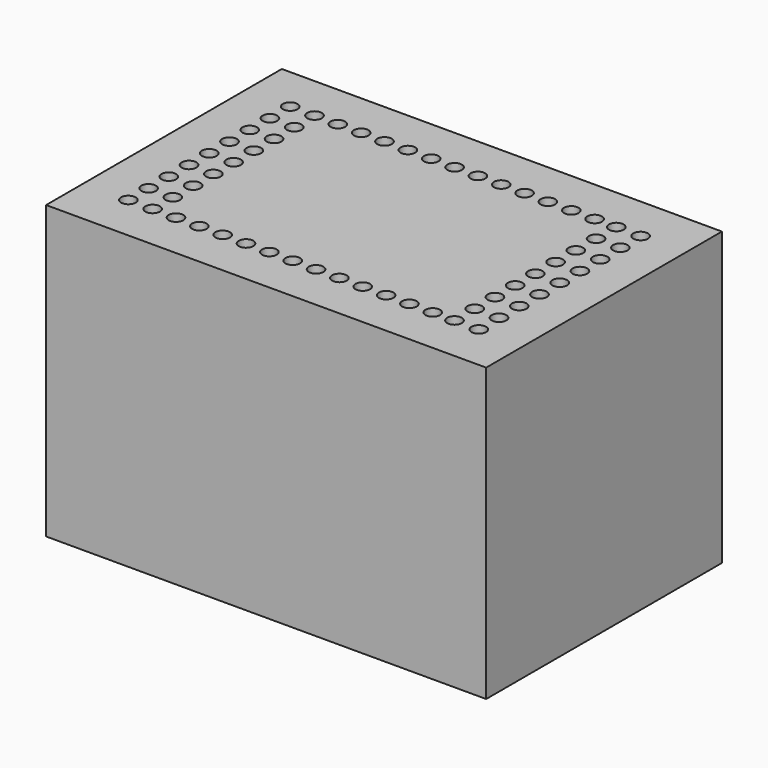
from build123d import *

# Parameters (mm, degrees)
F0_W     = 90.5
F0_H     = 60.6
F0_W_2   = 82.5
F0_H_2   = 52.6
F0_R     = 1.5
F1_DEPTH = 30
F2_DEPTH = 26


with BuildPart() as f1:
    # F0 (on Top) → F1 (new body, symmetric)
    with BuildSketch(Plane.XY):
        Rectangle(F0_W, F0_H)
        Rectangle(F0_W_2, F0_H_2, mode=Mode.SUBTRACT)
        Rectangle(F0_W_2, F0_H_2)
        with Locations((-36.030952, -20.674154)):
            Circle(F0_R, mode=Mode.SUBTRACT)
        with Locations((-36.030952, -15.474154)):
            Circle(F0_R, mode=Mode.SUBTRACT)
        with Locations((-31.030952, -20.674154)):
            Circle(F0_R, mode=Mode.SUBTRACT)
        with Locations((-26.230952, -20.674154)):
            Circle(F0_R, mode=Mode.SUBTRACT)
        with Locations((-31.030952, -15.474154)):
            Circle(F0_R, mode=Mode.SUBTRACT)
        with Locations((-21.430952, -20.674154)):
            Circle(F0_R, mode=Mode.SUBTRACT)
        with Locations((-16.630952, -20.674154)):
            Circle(F0_R, mode=Mode.SUBTRACT)
        with Locations((-11.830952, -20.674154)):
            Circle(F0_R, mode=Mode.SUBTRACT)
        with Locations((-7.030952, -20.674154)):
            Circle(F0_R, mode=Mode.SUBTRACT)
        with Locations((-2.230952, -20.674154)):
            Circle(F0_R, mode=Mode.SUBTRACT)
        with Locations((-36.030952, -10.274154)):
            Circle(F0_R, mode=Mode.SUBTRACT)
        with Locations((-31.030952, -10.274154)):
            Circle(F0_R, mode=Mode.SUBTRACT)
        with Locations((-36.030952, -5.074154)):
            Circle(F0_R, mode=Mode.SUBTRACT)
        with Locations((-31.030952, -5.074154)):
            Circle(F0_R, mode=Mode.SUBTRACT)
        with Locations((2.569048, -20.674154)):
            Circle(F0_R, mode=Mode.SUBTRACT)
        with Locations((7.369048, -20.674154)):
            Circle(F0_R, mode=Mode.SUBTRACT)
        with Locations((12.169048, -20.674154)):
            Circle(F0_R, mode=Mode.SUBTRACT)
        with Locations((16.969048, -20.674154)):
            Circle(F0_R, mode=Mode.SUBTRACT)
        with Locations((21.769048, -20.674154)):
            Circle(F0_R, mode=Mode.SUBTRACT)
        with Locations((26.569048, -20.674154)):
            Circle(F0_R, mode=Mode.SUBTRACT)
        with Locations((31.030952, -20.674154)):
            Circle(F0_R, mode=Mode.SUBTRACT)
        with Locations((31.030952, -15.474154)):
            Circle(F0_R, mode=Mode.SUBTRACT)
        with Locations((36.030952, -20.674154)):
            Circle(F0_R, mode=Mode.SUBTRACT)
        with Locations((36.030952, -15.474154)):
            Circle(F0_R, mode=Mode.SUBTRACT)
        with Locations((31.030952, -10.274154)):
            Circle(F0_R, mode=Mode.SUBTRACT)
        with Locations((36.030952, -10.274154)):
            Circle(F0_R, mode=Mode.SUBTRACT)
        with Locations((31.030952, -5.074154)):
            Circle(F0_R, mode=Mode.SUBTRACT)
        with Locations((36.030952, -5.074154)):
            Circle(F0_R, mode=Mode.SUBTRACT)
        with Locations((-36.030952, 0.125846)):
            Circle(F0_R, mode=Mode.SUBTRACT)
        with Locations((-36.030952, 5.325846)):
            Circle(F0_R, mode=Mode.SUBTRACT)
        with Locations((-31.030952, 0.125846)):
            Circle(F0_R, mode=Mode.SUBTRACT)
        with Locations((-31.030952, 5.325846)):
            Circle(F0_R, mode=Mode.SUBTRACT)
        with Locations((-36.030952, 10.525846)):
            Circle(F0_R, mode=Mode.SUBTRACT)
        with Locations((-31.030952, 10.525846)):
            Circle(F0_R, mode=Mode.SUBTRACT)
        with Locations((-36.030952, 15.725846)):
            Circle(F0_R, mode=Mode.SUBTRACT)
        with Locations((-36.030952, 20.925846)):
            Circle(F0_R, mode=Mode.SUBTRACT)
        with Locations((-31.030952, 15.725846)):
            Circle(F0_R, mode=Mode.SUBTRACT)
        with Locations((-31.030952, 20.925846)):
            Circle(F0_R, mode=Mode.SUBTRACT)
        with Locations((-26.230952, 20.925846)):
            Circle(F0_R, mode=Mode.SUBTRACT)
        with Locations((-21.430952, 20.925846)):
            Circle(F0_R, mode=Mode.SUBTRACT)
        with Locations((-16.630952, 20.925846)):
            Circle(F0_R, mode=Mode.SUBTRACT)
        with Locations((-11.830952, 20.925846)):
            Circle(F0_R, mode=Mode.SUBTRACT)
        with Locations((-7.030952, 20.925846)):
            Circle(F0_R, mode=Mode.SUBTRACT)
        with Locations((-2.230952, 20.925846)):
            Circle(F0_R, mode=Mode.SUBTRACT)
        with Locations((31.030952, 0.125846)):
            Circle(F0_R, mode=Mode.SUBTRACT)
        with Locations((31.030952, 5.325846)):
            Circle(F0_R, mode=Mode.SUBTRACT)
        with Locations((36.030952, 0.125846)):
            Circle(F0_R, mode=Mode.SUBTRACT)
        with Locations((36.030952, 5.325846)):
            Circle(F0_R, mode=Mode.SUBTRACT)
        with Locations((31.030952, 10.525846)):
            Circle(F0_R, mode=Mode.SUBTRACT)
        with Locations((36.030952, 10.525846)):
            Circle(F0_R, mode=Mode.SUBTRACT)
        with Locations((2.569048, 20.925846)):
            Circle(F0_R, mode=Mode.SUBTRACT)
        with Locations((7.369048, 20.925846)):
            Circle(F0_R, mode=Mode.SUBTRACT)
        with Locations((12.169048, 20.925846)):
            Circle(F0_R, mode=Mode.SUBTRACT)
        with Locations((16.969048, 20.925846)):
            Circle(F0_R, mode=Mode.SUBTRACT)
        with Locations((21.769048, 20.925846)):
            Circle(F0_R, mode=Mode.SUBTRACT)
        with Locations((31.030952, 15.725846)):
            Circle(F0_R, mode=Mode.SUBTRACT)
        with Locations((26.569048, 20.925846)):
            Circle(F0_R, mode=Mode.SUBTRACT)
        with Locations((31.030952, 20.925846)):
            Circle(F0_R, mode=Mode.SUBTRACT)
        with Locations((36.030952, 15.725846)):
            Circle(F0_R, mode=Mode.SUBTRACT)
        with Locations((36.030952, 20.925846)):
            Circle(F0_R, mode=Mode.SUBTRACT)
    extrude(amount=F1_DEPTH, both=True)

    # F0 (on Top) → F2 (cut, symmetric)
    with BuildSketch(Plane.XY):
        Rectangle(F0_W_2, F0_H_2)
        with Locations((-36.030952, -20.674154)):
            Circle(F0_R, mode=Mode.SUBTRACT)
        with Locations((-36.030952, -15.474154)):
            Circle(F0_R, mode=Mode.SUBTRACT)
        with Locations((-31.030952, -20.674154)):
            Circle(F0_R, mode=Mode.SUBTRACT)
        with Locations((-26.230952, -20.674154)):
            Circle(F0_R, mode=Mode.SUBTRACT)
        with Locations((-31.030952, -15.474154)):
            Circle(F0_R, mode=Mode.SUBTRACT)
        with Locations((-21.430952, -20.674154)):
            Circle(F0_R, mode=Mode.SUBTRACT)
        with Locations((-16.630952, -20.674154)):
            Circle(F0_R, mode=Mode.SUBTRACT)
        with Locations((-11.830952, -20.674154)):
            Circle(F0_R, mode=Mode.SUBTRACT)
        with Locations((-7.030952, -20.674154)):
            Circle(F0_R, mode=Mode.SUBTRACT)
        with Locations((-2.230952, -20.674154)):
            Circle(F0_R, mode=Mode.SUBTRACT)
        with Locations((-36.030952, -10.274154)):
            Circle(F0_R, mode=Mode.SUBTRACT)
        with Locations((-31.030952, -10.274154)):
            Circle(F0_R, mode=Mode.SUBTRACT)
        with Locations((-36.030952, -5.074154)):
            Circle(F0_R, mode=Mode.SUBTRACT)
        with Locations((-31.030952, -5.074154)):
            Circle(F0_R, mode=Mode.SUBTRACT)
        with Locations((2.569048, -20.674154)):
            Circle(F0_R, mode=Mode.SUBTRACT)
        with Locations((7.369048, -20.674154)):
            Circle(F0_R, mode=Mode.SUBTRACT)
        with Locations((12.169048, -20.674154)):
            Circle(F0_R, mode=Mode.SUBTRACT)
        with Locations((16.969048, -20.674154)):
            Circle(F0_R, mode=Mode.SUBTRACT)
        with Locations((21.769048, -20.674154)):
            Circle(F0_R, mode=Mode.SUBTRACT)
        with Locations((26.569048, -20.674154)):
            Circle(F0_R, mode=Mode.SUBTRACT)
        with Locations((31.030952, -20.674154)):
            Circle(F0_R, mode=Mode.SUBTRACT)
        with Locations((31.030952, -15.474154)):
            Circle(F0_R, mode=Mode.SUBTRACT)
        with Locations((36.030952, -20.674154)):
            Circle(F0_R, mode=Mode.SUBTRACT)
        with Locations((36.030952, -15.474154)):
            Circle(F0_R, mode=Mode.SUBTRACT)
        with Locations((31.030952, -10.274154)):
            Circle(F0_R, mode=Mode.SUBTRACT)
        with Locations((36.030952, -10.274154)):
            Circle(F0_R, mode=Mode.SUBTRACT)
        with Locations((31.030952, -5.074154)):
            Circle(F0_R, mode=Mode.SUBTRACT)
        with Locations((36.030952, -5.074154)):
            Circle(F0_R, mode=Mode.SUBTRACT)
        with Locations((-36.030952, 0.125846)):
            Circle(F0_R, mode=Mode.SUBTRACT)
        with Locations((-36.030952, 5.325846)):
            Circle(F0_R, mode=Mode.SUBTRACT)
        with Locations((-31.030952, 0.125846)):
            Circle(F0_R, mode=Mode.SUBTRACT)
        with Locations((-31.030952, 5.325846)):
            Circle(F0_R, mode=Mode.SUBTRACT)
        with Locations((-36.030952, 10.525846)):
            Circle(F0_R, mode=Mode.SUBTRACT)
        with Locations((-31.030952, 10.525846)):
            Circle(F0_R, mode=Mode.SUBTRACT)
        with Locations((-36.030952, 15.725846)):
            Circle(F0_R, mode=Mode.SUBTRACT)
        with Locations((-36.030952, 20.925846)):
            Circle(F0_R, mode=Mode.SUBTRACT)
        with Locations((-31.030952, 15.725846)):
            Circle(F0_R, mode=Mode.SUBTRACT)
        with Locations((-31.030952, 20.925846)):
            Circle(F0_R, mode=Mode.SUBTRACT)
        with Locations((-26.230952, 20.925846)):
            Circle(F0_R, mode=Mode.SUBTRACT)
        with Locations((-21.430952, 20.925846)):
            Circle(F0_R, mode=Mode.SUBTRACT)
        with Locations((-16.630952, 20.925846)):
            Circle(F0_R, mode=Mode.SUBTRACT)
        with Locations((-11.830952, 20.925846)):
            Circle(F0_R, mode=Mode.SUBTRACT)
        with Locations((-7.030952, 20.925846)):
            Circle(F0_R, mode=Mode.SUBTRACT)
        with Locations((-2.230952, 20.925846)):
            Circle(F0_R, mode=Mode.SUBTRACT)
        with Locations((31.030952, 0.125846)):
            Circle(F0_R, mode=Mode.SUBTRACT)
        with Locations((31.030952, 5.325846)):
            Circle(F0_R, mode=Mode.SUBTRACT)
        with Locations((36.030952, 0.125846)):
            Circle(F0_R, mode=Mode.SUBTRACT)
        with Locations((36.030952, 5.325846)):
            Circle(F0_R, mode=Mode.SUBTRACT)
        with Locations((31.030952, 10.525846)):
            Circle(F0_R, mode=Mode.SUBTRACT)
        with Locations((36.030952, 10.525846)):
            Circle(F0_R, mode=Mode.SUBTRACT)
        with Locations((2.569048, 20.925846)):
            Circle(F0_R, mode=Mode.SUBTRACT)
        with Locations((7.369048, 20.925846)):
            Circle(F0_R, mode=Mode.SUBTRACT)
        with Locations((12.169048, 20.925846)):
            Circle(F0_R, mode=Mode.SUBTRACT)
        with Locations((16.969048, 20.925846)):
            Circle(F0_R, mode=Mode.SUBTRACT)
        with Locations((21.769048, 20.925846)):
            Circle(F0_R, mode=Mode.SUBTRACT)
        with Locations((31.030952, 15.725846)):
            Circle(F0_R, mode=Mode.SUBTRACT)
        with Locations((26.569048, 20.925846)):
            Circle(F0_R, mode=Mode.SUBTRACT)
        with Locations((31.030952, 20.925846)):
            Circle(F0_R, mode=Mode.SUBTRACT)
        with Locations((36.030952, 15.725846)):
            Circle(F0_R, mode=Mode.SUBTRACT)
        with Locations((36.030952, 20.925846)):
            Circle(F0_R, mode=Mode.SUBTRACT)
    extrude(amount=F2_DEPTH, both=True, mode=Mode.SUBTRACT)


solid = f1.part
